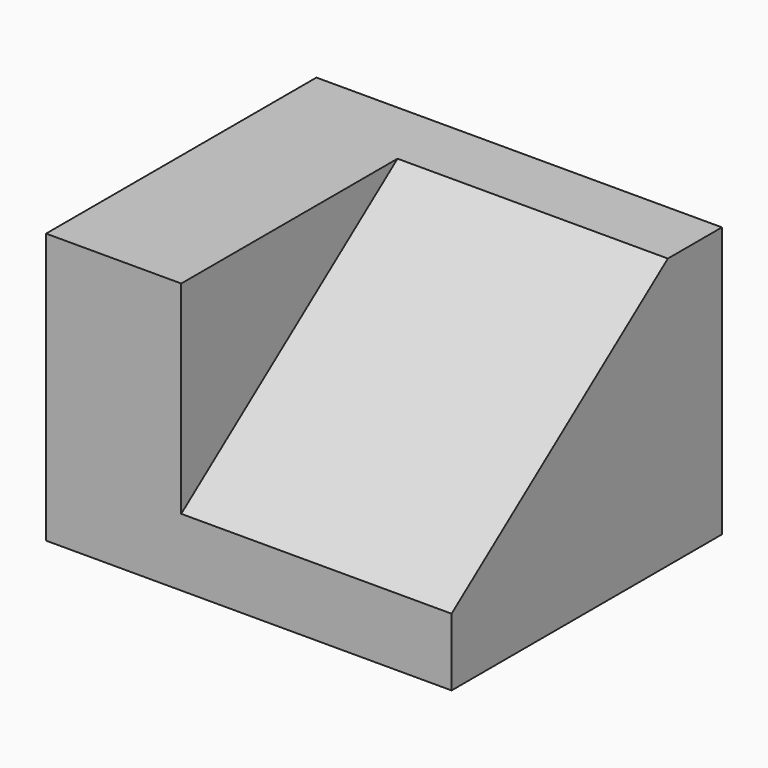
from build123d import *

# Parameters (mm, degrees)
F0_W     = 50.8
F0_H     = 31.75
F1_DEPTH = 25.4
F3_DEPTH = 25.4
F4_DEPTH = 6.35
F5_DEPTH = 6.35


with BuildPart() as f1:
    # F0 (on Top) → F1 (new body)
    with BuildSketch(Plane.XY):
        with Locations((25.4, 15.875)):
            Rectangle(F0_W, F0_H)
    extrude(amount=F1_DEPTH)

    # F2 (on face) → F3 (cut)
    with BuildSketch(Plane.YZ.offset(50.8)):
        Polygon((0, 6.35), (25.4, 25.4), (0, 25.4), align=None)
    extrude(amount=-F3_DEPTH, mode=Mode.SUBTRACT)

    # F4 (cut): a face of the model
    f4_faces = [f1.faces().sort_by_distance(p)[0] for p in [
        (0, 15.875, 12.7),
    ]]
    extrude(f4_faces, amount=-F4_DEPTH, mode=Mode.SUBTRACT)

    # F5 (cut): a face of the model
    f5_faces = [f1.faces().sort_by_distance(p)[0] for p in [
        (6.35, 15.875, 12.7),
    ]]
    extrude(f5_faces, amount=-F5_DEPTH, mode=Mode.SUBTRACT)


solid = f1.part
